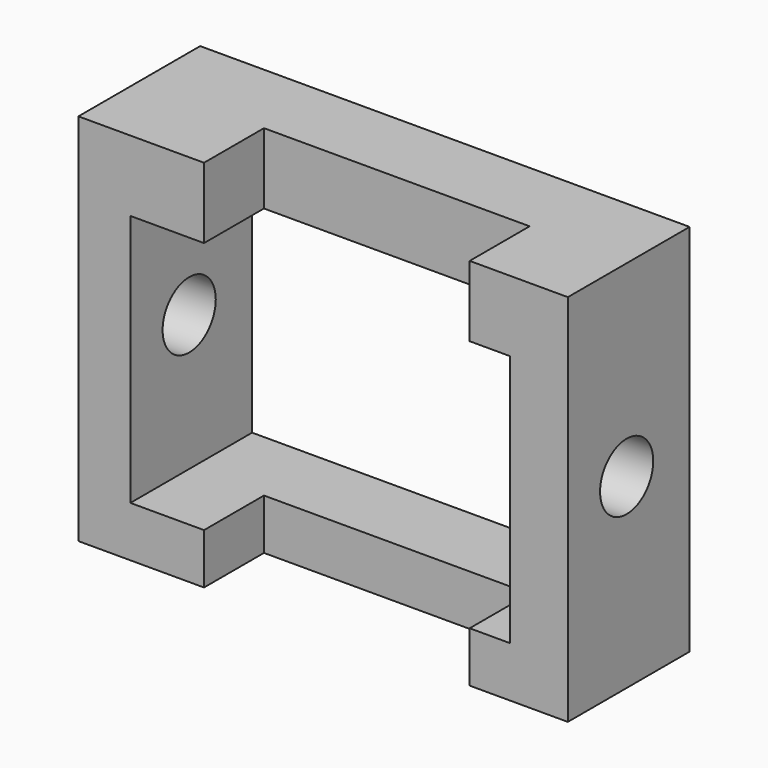
from build123d import *

# Parameters (mm, degrees)
F0_W     = 63.3814185858
F0_H     = 8.4347892553
F1_DEPTH = 25.4
F2_W     = 44.3428922445
F2_H     = 12.5068214998
F3_DEPTH = 100.838
F4_R     = 5.5480982764
F5_DEPTH = 130.048


with BuildPart() as f1:
    # F0 (on Front) → F1 (new body)
    with BuildSketch(Plane.XZ):
        with Locations((-4.3378919363, -13.736656867)):
            Rectangle(F0_W, F0_H)
        Polygon((-36.0286012292, -17.9540514946), (-36.0286012292, -9.5192622393), (-36.0286012292, 32.654684037), (-44.7043813765, 32.654684037), (-44.7043813765, -17.9540514946), align=None)
        Polygon((27.3528173566, 32.654684037), (27.3528173566, -9.5192622393), (27.3528173566, -17.9540514946), (36.9925759733, -17.9540514946), (36.9925759733, 44.4633886218), (27.3528173566, 44.4633886218), align=None)
        Polygon((-44.7043813765, 32.654684037), (-36.0286012292, 32.654684037), (27.3528173566, 32.654684037), (27.3528173566, 44.4633886218), (-44.7043813765, 44.4633886218), align=None)
    extrude(amount=F1_DEPTH)

    # F2 (on face) → F3 (cut)
    with BuildSketch(Plane(origin=(0, 0, -17.9540514946), x_dir=(1, 0, 0), z_dir=(0, 0, -1))):
        with Locations((-1.5664612874, 19.1465892501)):
            Rectangle(F2_W, F2_H)
    extrude(amount=-F3_DEPTH, mode=Mode.SUBTRACT)

    # F4 (on face) → F5 (cut)
    with BuildSketch(Plane.YZ.offset(36.9925759733)):
        with Locations((-13.1341712549, 13.1341721863)):
            Circle(F4_R)
    extrude(amount=-F5_DEPTH, mode=Mode.SUBTRACT)


solid = f1.part
